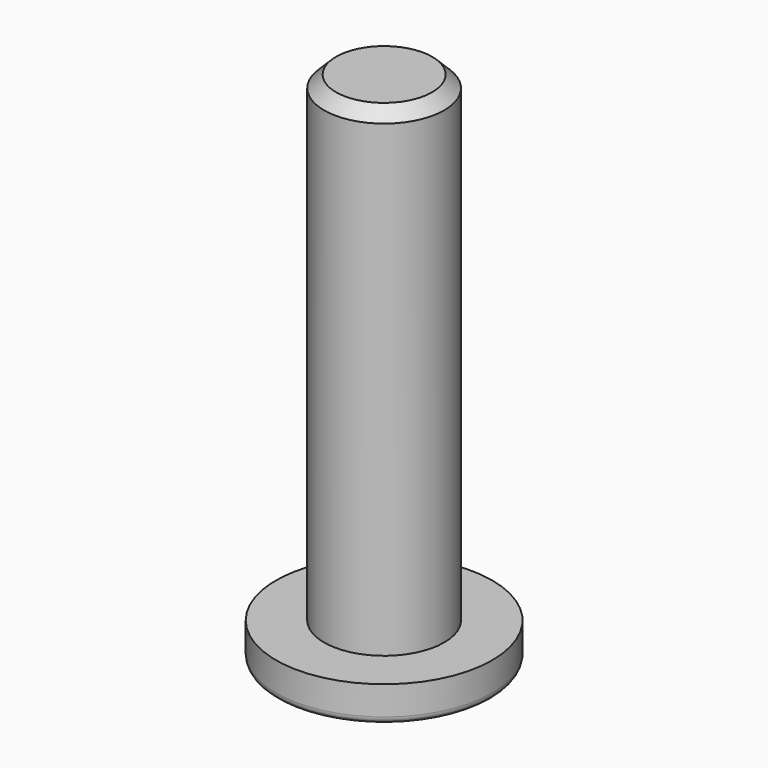
from build123d import *

# Parameters (mm, degrees)
F0_R      = 2.5
F1_DEPTH  = 20
F0_R_2    = 4.5
F1_FACE_R = 2.5
F2_DEPTH  = 1.5
F4_R      = 0.3
F5_DEPTH  = 3
F6_SIZE   = 0.5


with BuildPart() as f1:
    # F0 (on Top) → F1 (new body)
    with BuildSketch(Plane.XY):
        Circle(F0_R)
    extrude(amount=F1_DEPTH)

    # F0 (on Top) + F1_face (on face) → F2 (join)
    with BuildSketch(Plane.XY):
        Circle(F0_R_2)
        Circle(F0_R, mode=Mode.SUBTRACT)
    with BuildSketch(Plane(origin=(0, 0, 0), x_dir=(1, 0, 0), z_dir=(0, 0, -1))):
        Circle(F1_FACE_R)
    extrude(amount=-F2_DEPTH, dir=(0, 0, 1))

    # F4
    f4_edges = [f1.edges().sort_by_distance(p)[0] for p in [
        (-4.5, 0, -1.5),
    ]]
    fillet(f4_edges, radius=F4_R)

    # F3 (on face) → F5 (cut)
    with BuildSketch(Plane(origin=(0, 0, -1.5), x_dir=(1, 0, 0), z_dir=(0, 0, -1))):
        Polygon((-1.4980509352, -0.869392544), (0.0038905614, -1.732046438), (1.5019414966, -0.862653894), (1.4980509352, 0.869392544), (-0.0038905614, 1.732046438), (-1.5019414966, 0.862653894), align=None)
    extrude(amount=-F5_DEPTH, mode=Mode.SUBTRACT)

    # F6
    f6_edges = [f1.edges().sort_by_distance(p)[0] for p in [
        (-2.5, 0, 20),
    ]]
    chamfer(f6_edges, length=F6_SIZE)


solid = f1.part
